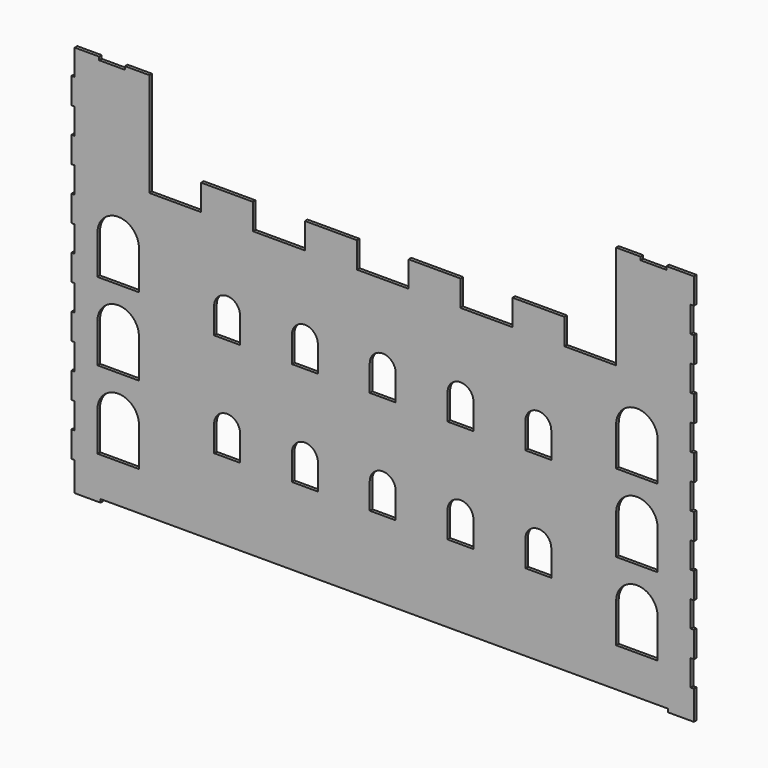
from build123d import *

# Parameters (mm, degrees)
F0_W      = 76.2
F0_H      = 76.2
F1_DEPTH  = 3.175
F2_W      = 3.175
F2_H      = 25.4
F3_DEPTH  = 25.4
F4_DEPTH  = 25.4
F5_DEPTH  = 25.4
F6_W      = 40.680845
F6_H      = 38.1
F7_DEPTH  = 25.4
F8_W      = 25.4
F8_H      = 25.4
F9_DEPTH  = 25.4
F10_W     = 25.4
F10_H     = 3.175
F11_DEPTH = 3.175
F12_W     = 25.4
F12_H     = 3.175
F13_DEPTH = 25.4


with BuildPart() as f1:
    # F0 (on Front) → F1 (new body)
    with BuildSketch(Plane.XZ):
        with Locations((-266.7, 190.5)):
            Rectangle(F0_W, F0_H)
        Polygon((-228.6, 152.4), (-304.8, 152.4), (-304.8, -152.4), (304.8, -152.4), (304.8, 152.4), (228.6, 152.4), (228.6, 127), (177.8, 127), (177.8, 152.4), (127, 152.4), (127, 127), (76.2, 127), (76.2, 152.4), (25.4, 152.4), (25.4, 127), (-25.4, 127), (-25.4, 152.4), (-76.2, 152.4), (-76.2, 127), (-127, 127), (-127, 152.4), (-177.8, 152.4), (-177.8, 127), (-228.6, 127), align=None)
        with Locations((266.7, 190.5)):
            Rectangle(F0_W, F0_H)
    extrude(amount=F1_DEPTH)

    # F2 (on face) → F3 (cut)
    with BuildSketch(Plane.XZ.offset(3.175)):
        with Locations((-303.2125, 114.3)):
            Rectangle(F2_W, F2_H)
        with Locations((303.2125, 190.5)):
            Rectangle(F2_W, F2_H)
        with Locations((-303.2125, 63.5)):
            Rectangle(F2_W, F2_H)
        with Locations((-303.2125, 12.7)):
            Rectangle(F2_W, F2_H)
        with Locations((-303.2125, -38.1)):
            Rectangle(F2_W, F2_H)
        with Locations((-303.2125, -88.9)):
            Rectangle(F2_W, F2_H)
        with Locations((-303.2125, -139.7)):
            Rectangle(F2_W, F2_H)
    extrude(amount=-F3_DEPTH, mode=Mode.SUBTRACT)

    # F2 (on face) → F4 (cut)
    with BuildSketch(Plane.XZ.offset(3.175)):
        with Locations((-303.2125, 114.3)):
            Rectangle(F2_W, F2_H)
        with Locations((303.2125, 190.5)):
            Rectangle(F2_W, F2_H)
        with Locations((-303.2125, 165.1)):
            Rectangle(F2_W, F2_H)
        with Locations((-303.2125, 215.9)):
            Rectangle(F2_W, F2_H)
    extrude(amount=-F4_DEPTH, mode=Mode.SUBTRACT)

    # F2 (on face) → F5 (cut)
    with BuildSketch(Plane.XZ.offset(3.175)):
        with Locations((303.2125, 139.7)):
            Rectangle(F2_W, F2_H)
        with Locations((303.2125, 88.9)):
            Rectangle(F2_W, F2_H)
        with Locations((303.2125, 38.1)):
            Rectangle(F2_W, F2_H)
        with Locations((303.2125, -12.7)):
            Rectangle(F2_W, F2_H)
        with Locations((303.2125, -63.5)):
            Rectangle(F2_W, F2_H)
        with Locations((303.2125, -114.3)):
            Rectangle(F2_W, F2_H)
    extrude(amount=-F5_DEPTH, mode=Mode.SUBTRACT)

    # F6 (on face) → F7 (cut)
    with BuildSketch(Plane.XZ.offset(3.175)):
        with BuildLine():
            ThreePointArc((-238.719155, 76.2), (-259.059577, 96.540423), (-279.4, 76.2))
            Line((-279.4, 76.2), (-238.719155, 76.2))
        make_face()
        with Locations((-259.059577, 57.15)):
            Rectangle(F6_W, F6_H)
        with BuildLine():
            ThreePointArc((-238.719155, 0), (-259.059577, 20.340423), (-279.4, 0))
            Line((-279.4, 0), (-238.719155, 0))
        make_face()
        with Locations((-259.059577, -19.05)):
            Rectangle(F6_W, F6_H)
        with BuildLine():
            ThreePointArc((-238.719155, -76.2), (-259.059577, -55.859577), (-279.4, -76.2))
            Line((-279.4, -76.2), (-238.719155, -76.2))
        make_face()
        with Locations((-259.059577, -95.25)):
            Rectangle(F6_W, F6_H)
        with BuildLine():
            ThreePointArc((269.280845, 76.2), (248.940423, 96.540423), (228.6, 76.2))
            Line((228.6, 76.2), (269.280845, 76.2))
        make_face()
        with Locations((248.940423, 57.15)):
            Rectangle(F6_W, F6_H)
        with BuildLine():
            ThreePointArc((269.280845, 0), (248.940423, 20.340423), (228.6, 0))
            Line((228.6, 0), (269.280845, 0))
        make_face()
        with Locations((248.940423, -19.05)):
            Rectangle(F6_W, F6_H)
        with BuildLine():
            ThreePointArc((269.280845, -76.2), (248.940423, -55.859577), (228.6, -76.2))
            Line((228.6, -76.2), (269.280845, -76.2))
        make_face()
        with Locations((248.940423, -95.25)):
            Rectangle(F6_W, F6_H)
    extrude(amount=-F7_DEPTH, mode=Mode.SUBTRACT)

    # F8 (on face) → F9 (cut)
    with BuildSketch(Plane(origin=(0, 0, 0), x_dir=(-1, 0, 0), z_dir=(0, 1, 0))):
        with BuildLine():
            ThreePointArc((-139.7, 50.249674), (-152.4, 62.949674), (-165.1, 50.249674))
            Line((-165.1, 50.249674), (-139.7, 50.249674))
        make_face()
        with Locations((-152.4, 37.549674)):
            Rectangle(F8_W, F8_H)
        with BuildLine():
            Line((-165.1, -51.350326), (-139.7, -51.350326))
            ThreePointArc((-139.7, -51.350326), (-152.4, -38.650326), (-165.1, -51.350326))
        make_face()
        with Locations((-152.4, -64.050326)):
            Rectangle(F8_W, F8_H)
        with BuildLine():
            Line((-88.9, 50.249674), (-63.5, 50.249674))
            ThreePointArc((-63.5, 50.249674), (-76.2, 62.949674), (-88.9, 50.249674))
        make_face()
        with Locations((-76.2, 37.549674)):
            Rectangle(F8_W, F8_H)
        with BuildLine():
            Line((-88.9, -51.350326), (-63.5, -51.350326))
            ThreePointArc((-63.5, -51.350326), (-76.2, -38.650326), (-88.9, -51.350326))
        make_face()
        with Locations((-76.2, -64.050326)):
            Rectangle(F8_W, F8_H)
        with BuildLine():
            Line((-12.7, 50.249674), (12.7, 50.249674))
            ThreePointArc((12.7, 50.249674), (0, 62.949674), (-12.7, 50.249674))
        make_face()
        with Locations((0, 37.549674)):
            Rectangle(F8_W, F8_H)
        with BuildLine():
            Line((-12.7, -51.350326), (12.7, -51.350326))
            ThreePointArc((12.7, -51.350326), (0, -38.650326), (-12.7, -51.350326))
        make_face()
        with Locations((0, -64.050326)):
            Rectangle(F8_W, F8_H)
        with BuildLine():
            Line((63.5, 50.249674), (88.9, 50.249674))
            ThreePointArc((88.9, 50.249674), (76.2, 62.949674), (63.5, 50.249674))
        make_face()
        with Locations((76.2, 37.549674)):
            Rectangle(F8_W, F8_H)
        with BuildLine():
            Line((63.5, -51.350326), (88.9, -51.350326))
            ThreePointArc((88.9, -51.350326), (76.2, -38.650326), (63.5, -51.350326))
        make_face()
        with Locations((76.2, -64.050326)):
            Rectangle(F8_W, F8_H)
        with BuildLine():
            Line((139.7, 50.249674), (165.1, 50.249674))
            ThreePointArc((165.1, 50.249674), (152.4, 62.949674), (139.7, 50.249674))
        make_face()
        with Locations((152.4, 37.549674)):
            Rectangle(F8_W, F8_H)
        with BuildLine():
            Line((139.7, -51.350326), (165.1, -51.350326))
            ThreePointArc((165.1, -51.350326), (152.4, -38.650326), (139.7, -51.350326))
        make_face()
        with Locations((152.4, -64.050326)):
            Rectangle(F8_W, F8_H)
    extrude(amount=-F9_DEPTH, mode=Mode.SUBTRACT)

    # F10 (on face) → F11 (join)
    with BuildSketch(Plane(origin=(0, 0, -152.4), x_dir=(1, 0, 0), z_dir=(0, 0, -1))):
        with Locations((292.1, 1.5875)):
            Rectangle(F10_W, F10_H)
        with Locations((-288.925, 1.5875)):
            Rectangle(F10_W, F10_H)
    extrude(amount=F11_DEPTH)

    # F12 (on face) → F13 (cut)
    with BuildSketch(Plane.XZ.offset(3.175)):
        with Locations((-265.1125, 227.0125)):
            Rectangle(F12_W, F12_H)
        with Locations((265.1125, 227.0125)):
            Rectangle(F12_W, F12_H)
    extrude(amount=-F13_DEPTH, mode=Mode.SUBTRACT)


solid = f1.part
